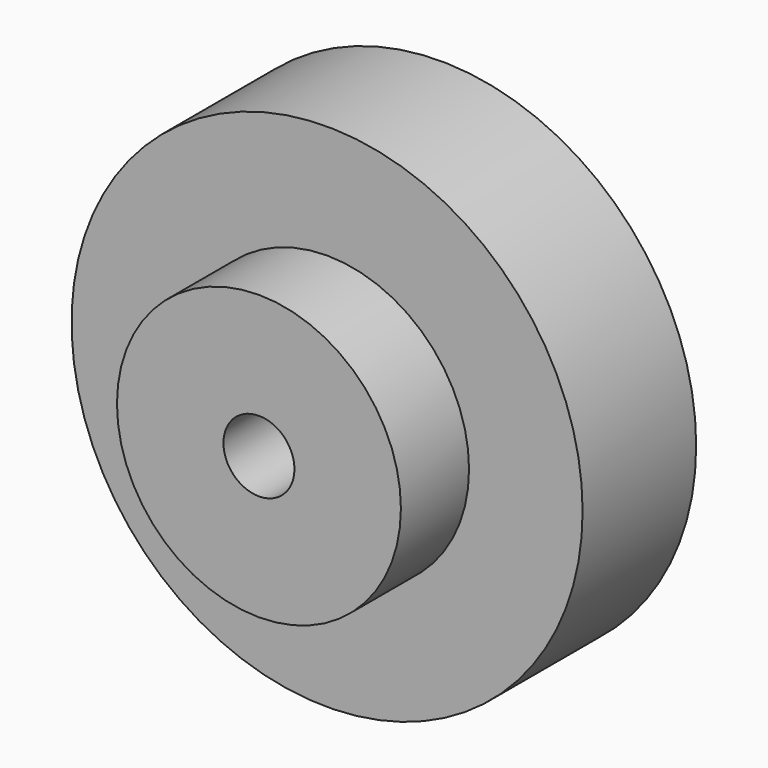
from build123d import *

# Parameters (mm, degrees)
F0_R     = 18
F0_R_2   = 10
F1_DEPTH = 10
F2_DEPTH = 16
F3_D     = 5


with BuildPart() as f1:
    # F0 (on Front) → F1 (new body)
    with BuildSketch(Plane.XZ):
        Circle(F0_R)
        Circle(F0_R_2, mode=Mode.SUBTRACT)
    extrude(amount=F1_DEPTH)

    # F0 (on Front) → F2 (join)
    with BuildSketch(Plane.XZ):
        Circle(F0_R_2)
    extrude(amount=F2_DEPTH)

    # F3 (through all)
    with Locations(Plane(origin=(0, 0, 0), x_dir=(1, 0, 0), z_dir=(0, 1, 0))):
        with Locations((0, 0)):
            Hole(F3_D / 2)


solid = f1.part
